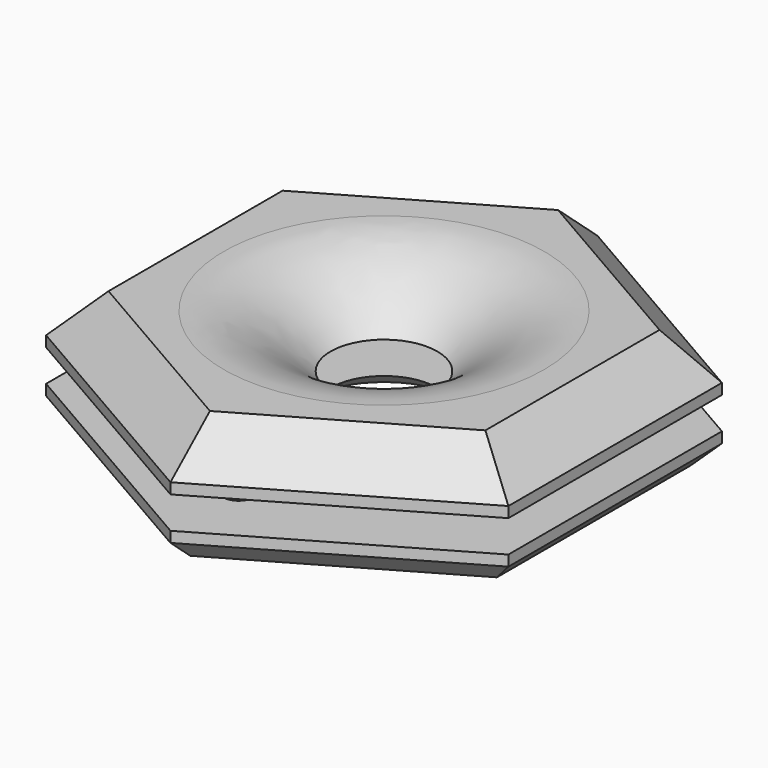
from build123d import *

# Parameters (mm, degrees)
PAD_DEPTH       = 5
CHAMFER_SIZE    = 4
SKETCH002_R     = 2.25
POCKET_DEPTH    = 4.5
POCKET_TAPER    = 5
PAD001_DEPTH    = 3
CHAMFER001_SIZE = 2
SKETCH003_R     = 1.5
POCKET001_DEPTH = 100
POCKET001_TAPER = -45
POCKET002_DEPTH = 1.001


with BuildPart() as top:
    # Sketch → Pad (new body)
    with BuildSketch(Plane.XY):
        Polygon((0, -25), (21.650635, -12.5), (21.650635, 12.5), (0, 25), (-21.650635, 12.5), (-21.650635, -12.5), align=None)
    extrude(amount=PAD_DEPTH)

    # Chamfer
    chamfer_edges = [top.edges().sort_by_distance(p)[0] for p in [
        (-10.825318, 18.75, 5),
        (-21.650635, 0, 5),
        (-10.825318, -18.75, 5),
        (10.825318, -18.75, 5),
        (21.650635, 0, 5),
        (10.825318, 18.75, 5),
    ]]
    chamfer(chamfer_edges, length=CHAMFER_SIZE)

    # Sketch001 → Groove (revolve, cut)
    with BuildSketch(Plane.XZ):
        with BuildLine():
            Line((0, 5), (0, 0))
            Line((0, 0), (5, 0))
            add(Edge.make_bspline(
                [(5, 0), (10, 5), (15, 5)],
                knots=[0, 0, 0, 1, 1, 1], degree=2))
            Line((15, 5), (0, 5))
        make_face()
    revolve(axis=Axis((0, 0, 0), (0, 0, 1)), mode=Mode.SUBTRACT)

    # Sketch002 → Pocket (cut)
    with BuildSketch(Plane.XY):
        with Locations((0, 17)):
            Circle(SKETCH002_R)
        with Locations((0, -17)):
            Circle(SKETCH002_R)
    extrude(amount=POCKET_DEPTH, taper=POCKET_TAPER, mode=Mode.SUBTRACT)


with BuildPart() as bottom:
    # Binder → Pad001 (new body)
    with BuildSketch(Plane(origin=(0, 0, -3), x_dir=(0, 1, 0), z_dir=(0, 0, 1))):
        Polygon((-25, 0), (-12.5, -21.650635), (12.5, -21.650635), (25, 0), (12.5, 21.650635), (-12.5, 21.650635), align=None)
    extrude(amount=-PAD001_DEPTH)

    # Chamfer001
    chamfer001_edges = [bottom.edges().sort_by_distance(p)[0] for p in [
        (10.825318, -18.75, -6),
        (21.650635, 0, -6),
        (10.825318, 18.75, -6),
        (-10.825318, 18.75, -6),
        (-21.650635, 0, -6),
        (-10.825318, -18.75, -6),
    ]]
    chamfer(chamfer001_edges, length=CHAMFER001_SIZE)

    # Sketch003 (on Binder) → Pocket001 (cut)
    with BuildSketch(Plane.XY.offset(-4)):
        with Locations((0, 17)):
            Circle(SKETCH003_R)
        with Locations((0, -17)):
            Circle(SKETCH003_R)
    extrude(amount=-POCKET001_DEPTH, taper=POCKET001_TAPER, mode=Mode.SUBTRACT)

    # Sketch003 (on Binder) → Pocket002 (cut, through all)
    with BuildSketch(Plane.XY.offset(-4)):
        with Locations((0, 17)):
            Circle(SKETCH003_R)
        with Locations((0, -17)):
            Circle(SKETCH003_R)
    extrude(amount=POCKET002_DEPTH, mode=Mode.SUBTRACT)

    # Sketch004 (on Binder) → Groove001 (revolve, cut)
    with BuildSketch(Plane(origin=(0, 0, -3), x_dir=(1, 0, 0), z_dir=(0, -1, 0))):
        with BuildLine():
            Line((0, -3), (0, 0))
            Line((0, 0), (5, 0))
            add(Edge.make_bspline(
                [(5, 0), (8, -3), (13, -3)],
                knots=[0, 0, 0, 1, 1, 1], degree=2))
            Line((13, -3), (0, -3))
        make_face()
    revolve(axis=Axis((0, 0, -3), (0, 0, 1)), mode=Mode.SUBTRACT)


solid = Compound([top.part, bottom.part])
